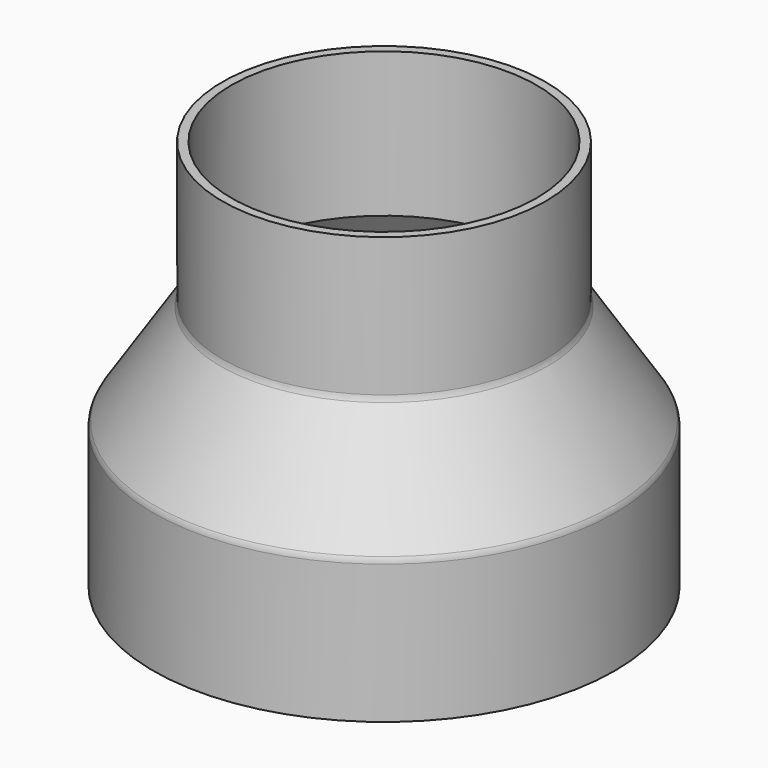
from build123d import *

# Parameters (mm, degrees)
F2_R = 3


with BuildPart() as f1:
    # F0 (on Front) → F1 (revolve)
    with BuildSketch(Plane.XZ):
        Polygon((45.5, 16.888113), (45.5, 56.888113), (43, 56.888113), (43, 16.147013), (62.5, -13.852987), (62.5, -36.111887), (47.5, -36.111887), (47.5, -38.111887), (62.5, -44.846747), (62.5, -53.111887), (65, -53.111887), (65, -13.111887), align=None)
    revolve(axis=Axis((0, 0, 3.055942), (0, 0, -1)))

    # F2
    f2_edges = [f1.edges().sort_by_distance(p)[0] for p in [
        (-65, 0, -13.111887),
        (-45.5, 0, 16.888113),
    ]]
    fillet(f2_edges, radius=F2_R)


solid = f1.part
